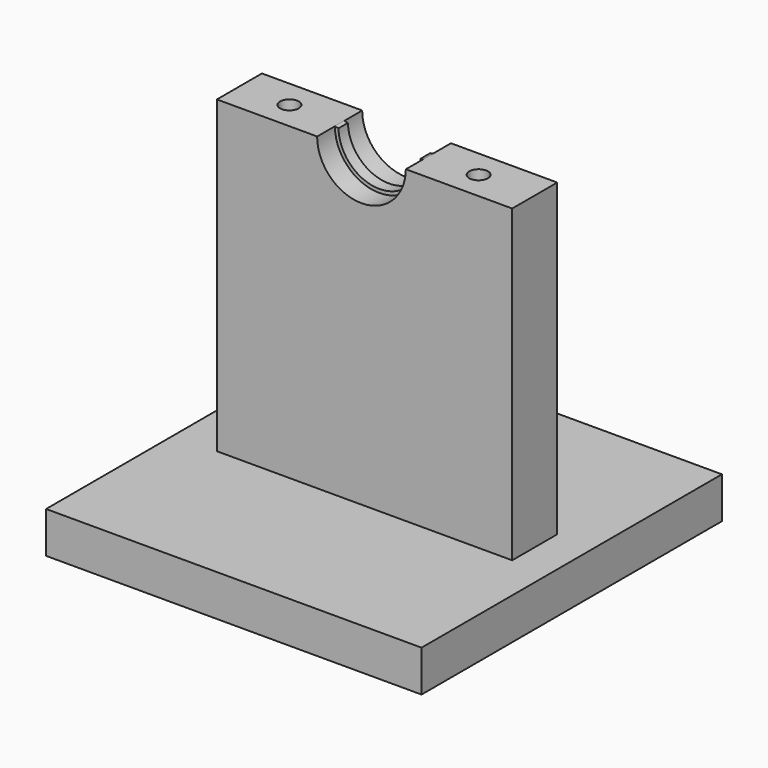
from build123d import *

# Parameters (mm, degrees)
F0_W      = 25.4
F0_H      = 25.4
F1_DEPTH  = 2.794
F2_W      = 19.9765078723
F2_H      = 23.7455442548
F3_DEPTH  = 1.905
F4_R      = 3
F5_DEPTH  = 2.6162
F6_R      = 3.0188611448
F7_DEPTH  = 0.4
F9_DEPTH  = 12.7
F11_D     = 1.27
F11_DEPTH = 12.7
F11_TIP   = 0.3815464931


with BuildPart() as f1:
    # F0 (on Top) → F1 (new body)
    with BuildSketch(Plane.XY):
        Rectangle(F0_W, F0_H)
    extrude(amount=F1_DEPTH)

    # F2 (on Front) → F3 (join, symmetric)
    with BuildSketch(Plane.XZ):
        with Locations((0.2077743411, 11.8727721274)):
            Rectangle(F2_W, F2_H)
    extrude(amount=F3_DEPTH, both=True)

    # F4 (on Front) → F5 (cut, symmetric)
    with BuildSketch(Plane.XZ):
        with Locations((0, 23.7455442548)):
            Circle(F4_R)
    extrude(amount=F5_DEPTH, both=True, mode=Mode.SUBTRACT)

    # F6 (on Front) → F7 (join, symmetric)
    with BuildSketch(Plane.XZ):
        with Locations((0, 23.7644053996)):
            Circle(F6_R)
    extrude(amount=F7_DEPTH, both=True)

    # F8 (on Front) → F9 (cut, symmetric)
    with BuildSketch(Plane.XZ):
        with BuildLine():
            Line((-3.0188022242, 23.7455442548), (-2.7621155605, 23.6954018474))
            ThreePointArc((-2.7621155605, 23.6954018474), (0.0185002573, 20.9847880645), (2.799116075, 23.6954018474))
            Line((2.799116075, 23.6954018474), (3.0188022242, 23.7455442548))
            ThreePointArc((3.0188022242, 23.7455442548), (0, 26.7832665443), (-3.0188022242, 23.7455442548))
        make_face()
    extrude(amount=F9_DEPTH, both=True, mode=Mode.SUBTRACT)

    # F11
    with Locations(Plane.XY.offset(23.7455442548)):
        with Locations((6.3995422242, 0), (-6.3995422242, 0)):
            Hole(F11_D / 2, depth=F11_DEPTH)
            with Locations((0, 0, -(F11_DEPTH + F11_TIP / 2))):  # 118° drill point
                Cone(0, F11_D / 2, F11_TIP, mode=Mode.SUBTRACT)


solid = f1.part
